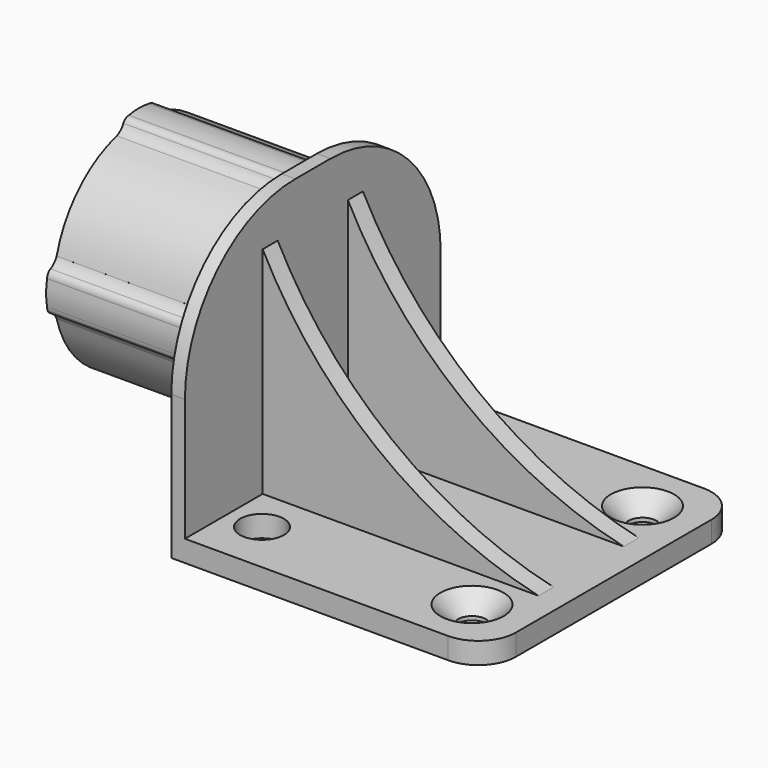
from build123d import *

# Parameters (mm, degrees)
SKETCH001_W        = 48
SKETCH001_H        = 51
SKETCH001_R        = 3.5
SKETCH001_R_2      = 2.25
PAD_DEPTH          = 3.41
SKETCH002_W        = 51
SKETCH002_H        = 45
PAD001_DEPTH       = 2.17
PAD002_DEPTH       = 25.56
POLARPATTERN_COUNT = 4
PAD003_DEPTH       = 3
CHAMFER_SIZE       = 2.8
FILLET_R           = 6
FILLET001_R        = 22


with BuildPart() as part:
    # Sketch001 → Pad (new body)
    with BuildSketch(Plane.XY):
        Rectangle(SKETCH001_W, SKETCH001_H)
        with Locations((-18.5, 17)):
            Circle(SKETCH001_R, mode=Mode.SUBTRACT)
        with Locations((15, 17)):
            Circle(SKETCH001_R_2, mode=Mode.SUBTRACT)
        with Locations((-18.5, -17)):
            Circle(SKETCH001_R, mode=Mode.SUBTRACT)
        with Locations((15, -17)):
            Circle(SKETCH001_R_2, mode=Mode.SUBTRACT)
    extrude(amount=PAD_DEPTH)

    # Sketch002 → Pad001 (join)
    with BuildSketch(Plane(origin=(-24, 0, 0), x_dir=(0, -1, 0), z_dir=(-1, 0, 0))):
        with Locations((0, 22.5)):
            Rectangle(SKETCH002_W, SKETCH002_H)
    extrude(amount=PAD001_DEPTH)

    # Sketch → Pad002 (join)
    with BuildSketch(Plane(origin=(-26.17, 0, 26), x_dir=(0, -1, 0), z_dir=(-1, 0, 0))):
        with BuildLine():
            ThreePointArc((16.420739, 4.399924), (12.028925, 12.0127), (4.422085, 16.414785))
            ThreePointArc((3.11174, 17.647793), (3.652144, 16.909322), (4.422085, 16.414785))
            ThreePointArc((3.11174, 17.647793), (2.656255, 18.151957), (2, 18.327959))
            ThreePointArc((2, 18.327959), (0, 18.53), (-2, 18.327959))
            ThreePointArc((-2, 18.327959), (-2.656255, 18.151957), (-3.11174, 17.647793))
            ThreePointArc((-4.400695, 16.423616), (-3.643735, 16.917271), (-3.11174, 17.647793))
            Line((-4.400695, 16.423616), (-3.882286, 14.488887))
            ThreePointArc((-2.03, 14.862002), (-2.962024, 14.704639), (-3.882286, 14.488887))
            Line((-2.03, 16.878362), (-2.03, 14.862002))
            ThreePointArc((2.03, 16.878362), (0, 17), (-2.03, 16.878362))
            Line((2.03, 16.878362), (2.03, 14.862002))
            ThreePointArc((14.488887, 3.882286), (9.917507, 11.253579), (2.03, 14.862002))
            Line((14.488887, 3.882286), (16.420739, 4.399924))
        make_face()
    pad002 = extrude(amount=PAD002_DEPTH)

    # PolarPattern: Pad002 ×4 about axis
    polarpattern_axis = Axis((-26.17, 0, 26), (-1, 0, 0))
    for i in range(1, POLARPATTERN_COUNT):
        add(pad002.rotate(polarpattern_axis, i * 360 / POLARPATTERN_COUNT))

    # Sketch003 → Pad003 (join)
    with BuildSketch(Plane.XZ.offset(-10)):
        with BuildLine():
            ThreePointArc((-24, 37.77), (-5.775752, 15.754927), (20, 3.41))
            Line((20, 3.41), (-24, 3.41))
            Line((-24, 3.41), (-24, 37.77))
        make_face()
    pad003 = extrude(amount=PAD003_DEPTH)

    # Mirrored: Pad003 across XZ
    add(pad003.mirror(Plane.XZ))

    # Chamfer
    chamfer_edges = [part.edges().sort_by_distance(p)[0] for p in [
        (12.75, 17, 3.41),
        (12.75, -17, 3.41),
    ]]
    chamfer(chamfer_edges, length=CHAMFER_SIZE)

    # Fillet
    fillet_edges = [part.edges().sort_by_distance(p)[0] for p in [
        (24, 25.5, 1.705),
        (24, -25.5, 1.705),
    ]]
    fillet(fillet_edges, radius=FILLET_R)

    # Fillet001
    fillet001_edges = [part.edges().sort_by_distance(p)[0] for p in [
        (-25.085, 25.5, 45),
        (-25.085, -25.5, 45),
    ]]
    fillet(fillet001_edges, radius=FILLET001_R)


solid = part.part
